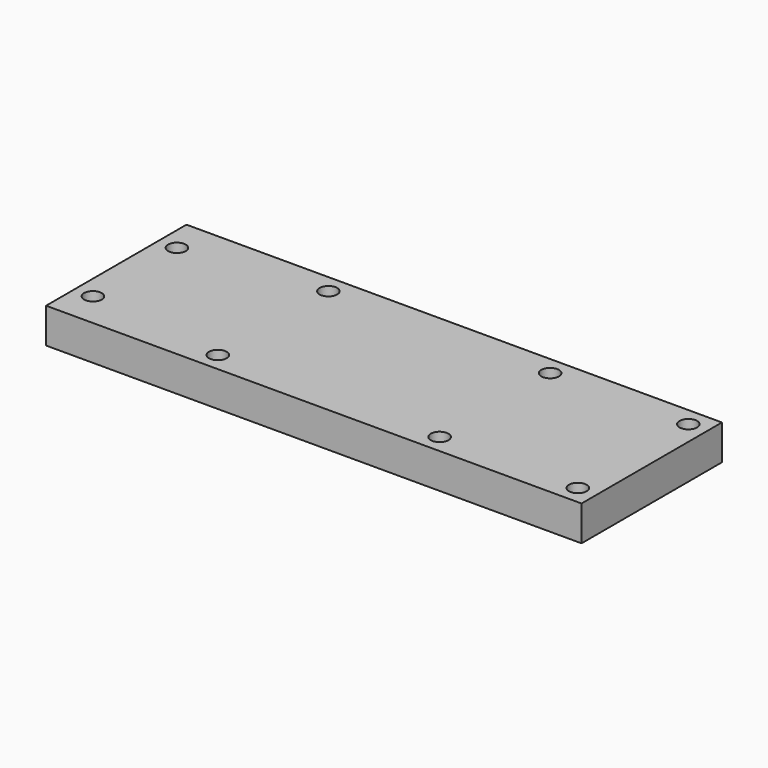
from build123d import *

# Parameters (mm, degrees)
SKETCH_W  = 96.875
SKETCH_H  = 31.75
SKETCH_R  = 1.6
PAD_DEPTH = 6.35


with BuildPart() as part:
    # Sketch → Pad (new body)
    with BuildSketch(Plane.XY):
        Rectangle(SKETCH_W, SKETCH_H)
        with Locations((-45.0625, 9.5)):
            Circle(SKETCH_R, mode=Mode.SUBTRACT)
        with Locations((-20.0625, 12.5)):
            Circle(SKETCH_R, mode=Mode.SUBTRACT)
        with Locations((20.0625, 12.5)):
            Circle(SKETCH_R, mode=Mode.SUBTRACT)
        with Locations((45.0625, 12.5)):
            Circle(SKETCH_R, mode=Mode.SUBTRACT)
        with Locations((45.0625, -12.5)):
            Circle(SKETCH_R, mode=Mode.SUBTRACT)
        with Locations((20.0625, -12.5)):
            Circle(SKETCH_R, mode=Mode.SUBTRACT)
        with Locations((-20.0625, -12.5)):
            Circle(SKETCH_R, mode=Mode.SUBTRACT)
        with Locations((-45.0625, -9.5)):
            Circle(SKETCH_R, mode=Mode.SUBTRACT)
    extrude(amount=PAD_DEPTH)


solid = part.part
